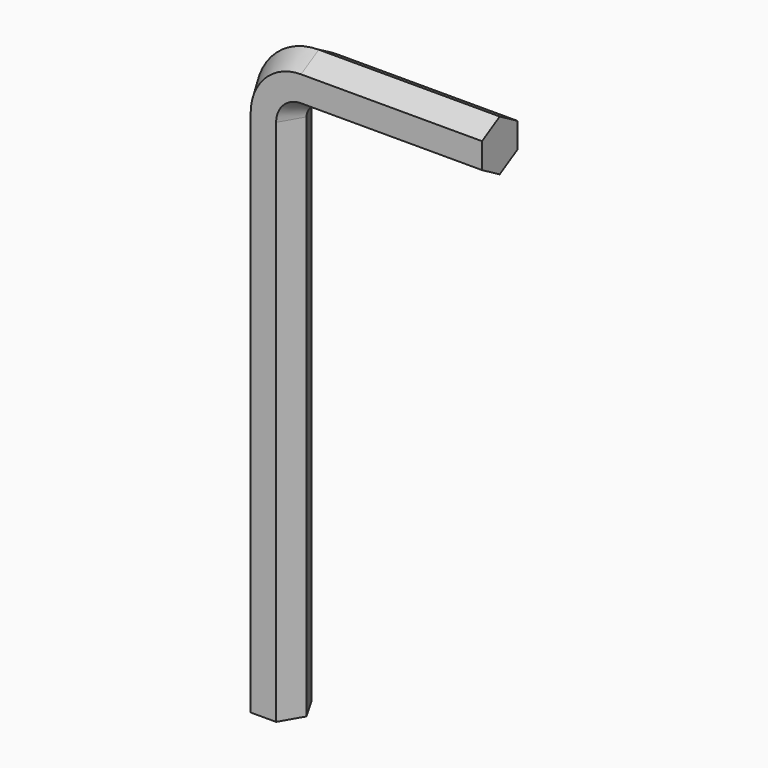
from build123d import *


with BuildPart() as f2:
    # F2: sweep along a path in F1
    with BuildLine(Plane.XZ) as f2_path:
        Line((0, 0), (0, 70))
        ThreePointArc((0, 70), (1.464466, 73.535534), (5, 75))
        Line((5, 75), (29, 75))
    # F0 (on Top) → F2 (sweep)
    with BuildSketch(Plane.XY):
        Polygon((3.377499, 0), (1.68875, 2.925), (-1.68875, 2.925), (-3.377499, 0), (-1.68875, -2.925), (1.68875, -2.925), align=None)
    sweep(path=f2_path.line)


solid = f2.part
